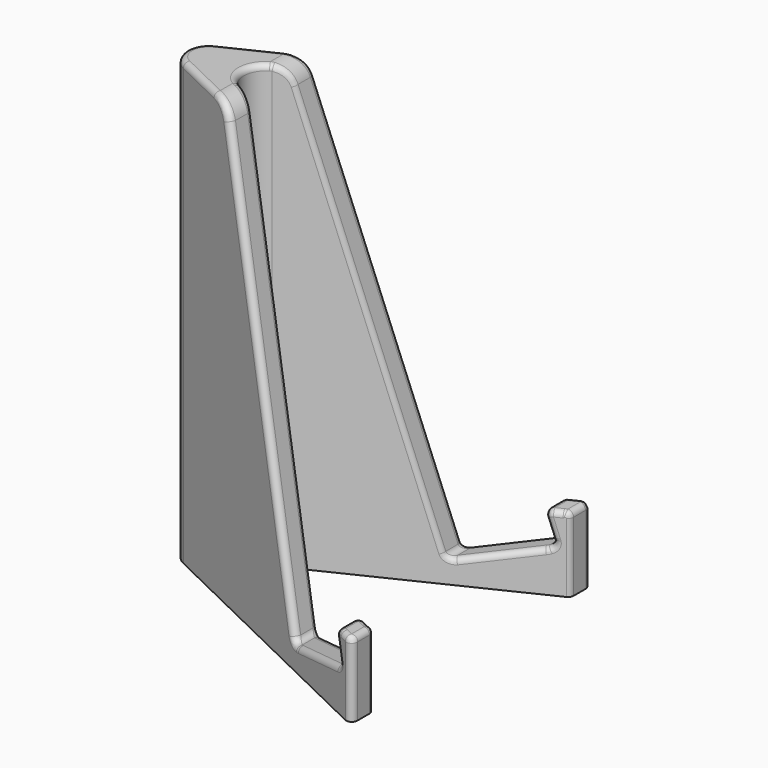
from build123d import *

# Parameters (mm, degrees)
PAD_DEPTH       = 27.5
POCKET_DEPTH    = 304.973784
POCKET001_DEPTH = 80.001
FILLET_R        = 4
FILLET001_R     = 1
FILLET002_R     = 1
FILLET003_R     = 1
FILLET004_R     = 4
FILLET005_R     = 1
FILLET006_R     = 1


with BuildPart() as part:
    # Sketch → Pad (new body, symmetric)
    with BuildSketch(Plane.XZ):
        Polygon((36.817149, 0), (-20, 0), (-20, 80), (0, 80), (20.364139, 4), (34.370063, 7.752876), (32.817149, 13.548431), (36.817149, 13.548431), align=None)
    extrude(amount=PAD_DEPTH, both=True)

    # Sketch001 (on Face1 of Pad) → Pocket (cut, through all)
    with BuildSketch(Plane(origin=(0, 0, 0), x_dir=(1, 0, 0), z_dir=(0, 0, -1))):
        Polygon((36.817149, 27.5), (-20, 0), (-33.53325, 5.425311), (-38.671539, 41.255267), (42.329174, 41.255267), align=None)
    pocket = extrude(amount=-POCKET_DEPTH, mode=Mode.SUBTRACT)

    # Mirrored: Pocket across Sketch001 H_Axis
    add(pocket.mirror(Plane(origin=(0, 0, 0), x_dir=(0, 0, -1), z_dir=(0, -1, 0))), mode=Mode.SUBTRACT)

    # Sketch002 (on Face1 of Mirrored) → Pocket001 (cut, through all)
    with BuildSketch(Plane(origin=(0, 0, 0), x_dir=(1, 0, 0), z_dir=(0, 0, -1))):
        Polygon((36.817149, 22.5), (-9.669609, 0), (36.817149, -22.5), align=None)
    extrude(amount=-POCKET001_DEPTH, mode=Mode.SUBTRACT)

    # Fillet
    fillet_edges = [part.edges().sort_by_distance(p)[0] for p in [
        (-9.669609, 0, 40),
        (-20, 0, 40),
    ]]
    fillet(fillet_edges, radius=FILLET_R)

    # Fillet001
    fillet001_edges = [part.edges().sort_by_distance(p)[0] for p in [
        (20.364139, 17.036598, 4),
        (34.370063, 23.815589, 7.752876),
    ]]
    fillet(fillet001_edges, radius=FILLET001_R)

    # Fillet002
    fillet002_edges = [part.edges().sort_by_distance(p)[0] for p in [
        (20.364139, -17.036598, 4),
        (34.370063, -23.815589, 7.752876),
    ]]
    fillet(fillet002_edges, radius=FILLET002_R)

    # Fillet003
    fillet003_edges = [part.edges().sort_by_distance(p)[0] for p in [
        (32.817149, -23.063965, 13.548431),
        (32.817149, 23.063965, 13.548431),
        (36.817149, 25, 13.548431),
        (36.817149, -25, 13.548431),
    ]]
    fillet(fillet003_edges, radius=FILLET003_R)

    # Fillet004
    fillet004_edges = [part.edges().sort_by_distance(p)[0] for p in [
        (0, 7.180176, 80),
        (0, -7.180176, 80),
    ]]
    fillet(fillet004_edges, radius=FILLET004_R)

    # Fillet005
    fillet005_edges = [part.edges().sort_by_distance(p)[0] for p in [
        (-14.818559, 0, 80),
        (-0.692924, -9.344795, 79.217577),
        (-0.692924, 9.344795, 79.217577),
    ]]
    fillet(fillet005_edges, radius=FILLET005_R)

    # Fillet006
    fillet006_edges = [part.edges().sort_by_distance(p)[0] for p in [
        (-0.354755, 4.508471, 78.937891),
    ]]
    fillet(fillet006_edges, radius=FILLET006_R)


solid = part.part
